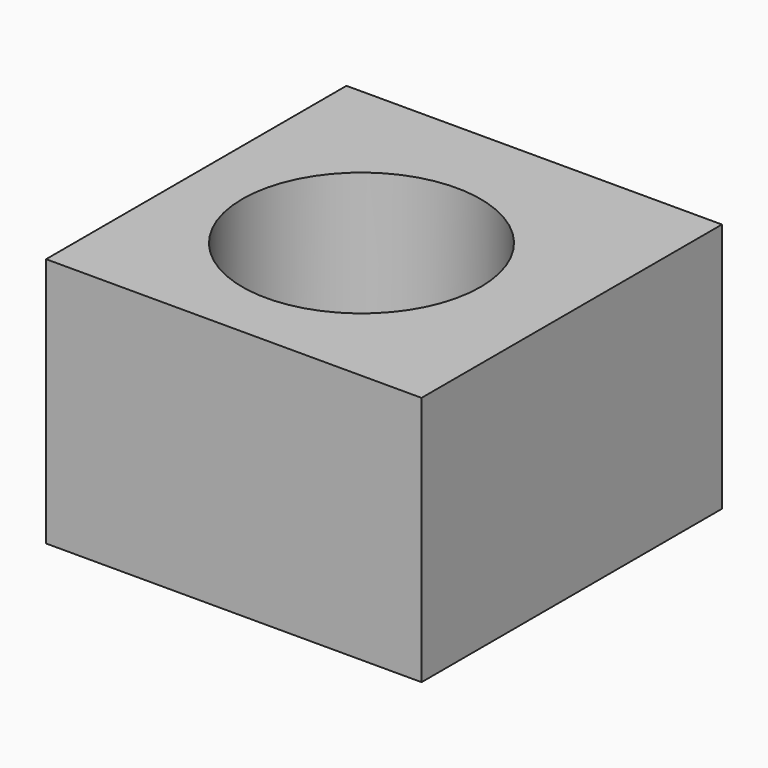
from build123d import *

# Parameters (mm, degrees)
CYLINDER_R     = 4.76
CYLINDER_DEPTH = 15
BOX_W          = 15
BOX_H          = 15
BOX_DEPTH      = 10


with BuildPart() as cylinder:
    # Cylinder → Cylinder (new body)
    with BuildSketch(Plane(origin=(7, 7, -3), x_dir=(1, 0, 0), z_dir=(0, 0, 1))):
        Circle(CYLINDER_R)
    extrude(amount=CYLINDER_DEPTH)


with BuildPart() as cut:
    # Box → Box (new body)
    with BuildSketch(Plane.XY):
        with Locations((7.5, 7.5)):
            Rectangle(BOX_W, BOX_H)
    extrude(amount=BOX_DEPTH)

    # Cut: cut Cylinder
    add(cylinder.part, mode=Mode.SUBTRACT)


solid = cut.part
